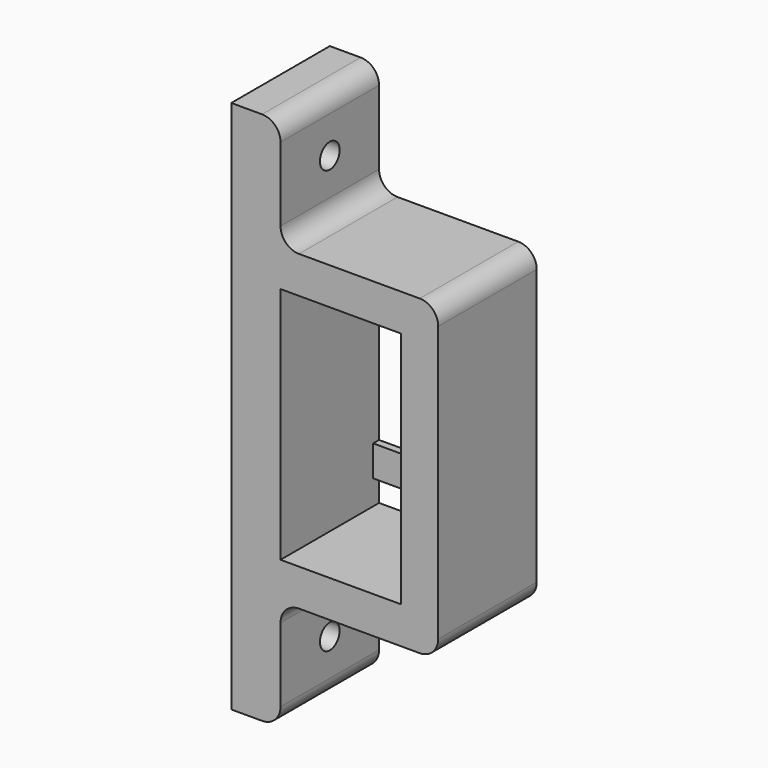
from build123d import *

# Parameters (mm, degrees)
F1_DEPTH = 20
F2_W     = 19.6
F2_H     = 38.7
F3_DEPTH = 25
F4_R     = 2
F5_DEPTH = 25
F6_W     = 1.2
F6_H     = 5
F7_DEPTH = 19.6


with BuildPart() as f1:
    # F0 (on Front) → F1 (new body)
    with BuildSketch(Plane.XZ):
        with BuildLine():
            Line((-5.8, -25.35), (13.8, -25.35))
            ThreePointArc((13.8, -25.35), (15.92132, -24.47132), (16.8, -22.35))
            Line((16.8, -22.35), (16.8, 22.35))
            ThreePointArc((16.8, 22.35), (15.92132, 24.47132), (13.8, 25.35))
            Line((13.8, 25.35), (-5.8, 25.35))
            ThreePointArc((-5.8, 25.35), (-7.92132, 26.22868), (-8.8, 28.35))
            Line((-8.8, 28.35), (-8.8, 40.35))
            ThreePointArc((-8.8, 40.35), (-9.67868, 42.47132), (-11.8, 43.35))
            Line((-11.8, 43.35), (-16.8, 43.35))
            Line((-16.8, 43.35), (-16.8, 25.35))
            Line((-16.8, 25.35), (-16.8, -25.35))
            Line((-16.8, -25.35), (-16.8, -43.35))
            Line((-16.8, -43.35), (-11.8, -43.35))
            ThreePointArc((-11.8, -43.35), (-9.67868, -42.47132), (-8.8, -40.35))
            Line((-8.8, -40.35), (-8.8, -28.35))
            ThreePointArc((-8.8, -28.35), (-7.92132, -26.22868), (-5.8, -25.35))
        make_face()
    extrude(amount=F1_DEPTH)

    # F2 (on face) → F3 (cut)
    with BuildSketch(Plane.XZ.offset(20)):
        with Locations((1, 0)):
            Rectangle(F2_W, F2_H)
    extrude(amount=-F3_DEPTH, mode=Mode.SUBTRACT)

    # F4 (on face) → F5 (cut)
    with BuildSketch(Plane.YZ.offset(-8.8)):
        with Locations((-10, 34.35)):
            Circle(F4_R)
        with Locations((-10, -34.35)):
            Circle(F4_R)
    extrude(amount=-F5_DEPTH, mode=Mode.SUBTRACT)

    # F6 (on face) → F7 (join, through all)
    with BuildSketch(Plane.YZ.offset(-8.8)):
        with Locations((-0.6, 12.85)):
            Rectangle(F6_W, F6_H)
        with Locations((-0.6, -12.85)):
            Rectangle(F6_W, F6_H)
    extrude(amount=F7_DEPTH)


solid = f1.part
